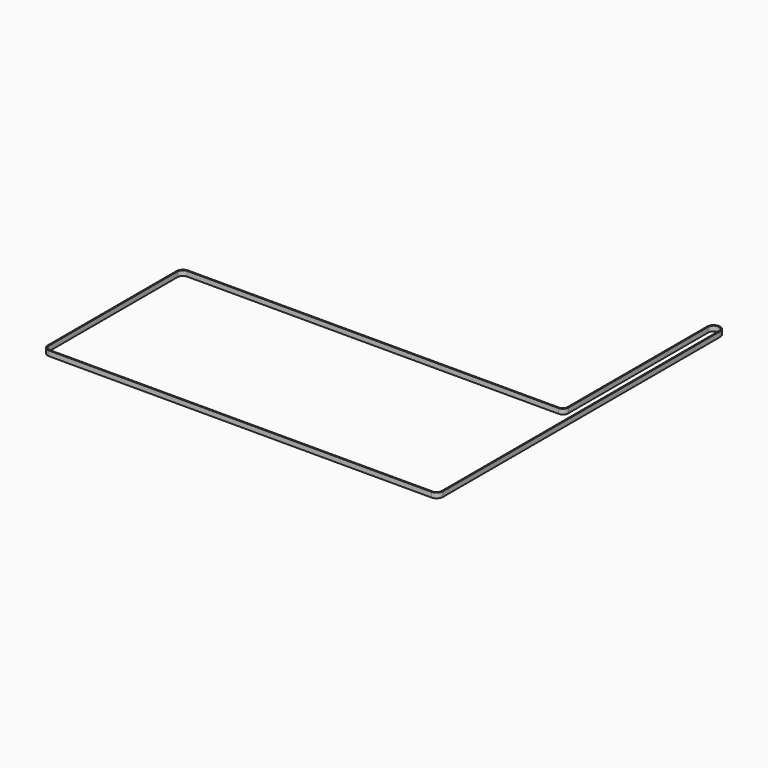
from build123d import *

# Parameters (mm, degrees)
F1_DEPTH = 6


with BuildPart() as f1:
    # F0 (on Top) → F1 (new body)
    with BuildSketch(Plane.XY):
        with BuildLine():
            Line((4.290289, -108.624975), (4.290289, 306.075025))
            ThreePointArc((4.290289, 306.075025), (-3.509711, 313.875025), (-11.309711, 306.075025))
            Line((-11.309711, 306.075025), (-11.309711, 96.725025))
            ThreePointArc((-11.309711, 96.725025), (-12.832756, 93.04807), (-16.509711, 91.525025))
            Line((-16.509711, 91.525025), (-441.135317, 91.525025))
            Line((-441.135317, 91.525025), (-461.209711, 91.525025))
            ThreePointArc((-461.209711, 91.525025), (-466.725144, 89.240458), (-469.009711, 83.725025))
            Line((-469.009711, 83.725025), (-469.009711, -108.624975))
            ThreePointArc((-469.009711, -108.624975), (-466.725144, -114.140408), (-461.209711, -116.424975))
            Line((-461.209711, -116.424975), (-3.509711, -116.424975))
            ThreePointArc((-3.509711, -116.424975), (2.005722, -114.140408), (4.290289, -108.624975))
        make_face()
        with BuildLine():
            ThreePointArc((-10.009711, 306.075025), (-3.509711, 312.575025), (2.990289, 306.075025))
            Line((2.990289, 306.075025), (2.990289, -108.624975))
            ThreePointArc((2.990289, -108.624975), (1.086483, -113.221169), (-3.509711, -115.124975))
            Line((-3.509711, -115.124975), (-461.209711, -115.124975))
            ThreePointArc((-461.209711, -115.124975), (-465.805905, -113.221169), (-467.709711, -108.624975))
            Line((-467.709711, -108.624975), (-467.709711, 83.725025))
            ThreePointArc((-467.709711, 83.725025), (-465.805905, 88.321219), (-461.209711, 90.225025))
            Line((-461.209711, 90.225025), (-244.859711, 90.225025))
            Line((-244.859711, 90.225025), (-16.509711, 90.225025))
            ThreePointArc((-16.509711, 90.225025), (-11.913517, 92.128831), (-10.009711, 96.725025))
            Line((-10.009711, 96.725025), (-10.009711, 306.075025))
        make_face(mode=Mode.SUBTRACT)
    extrude(amount=F1_DEPTH)


solid = f1.part
